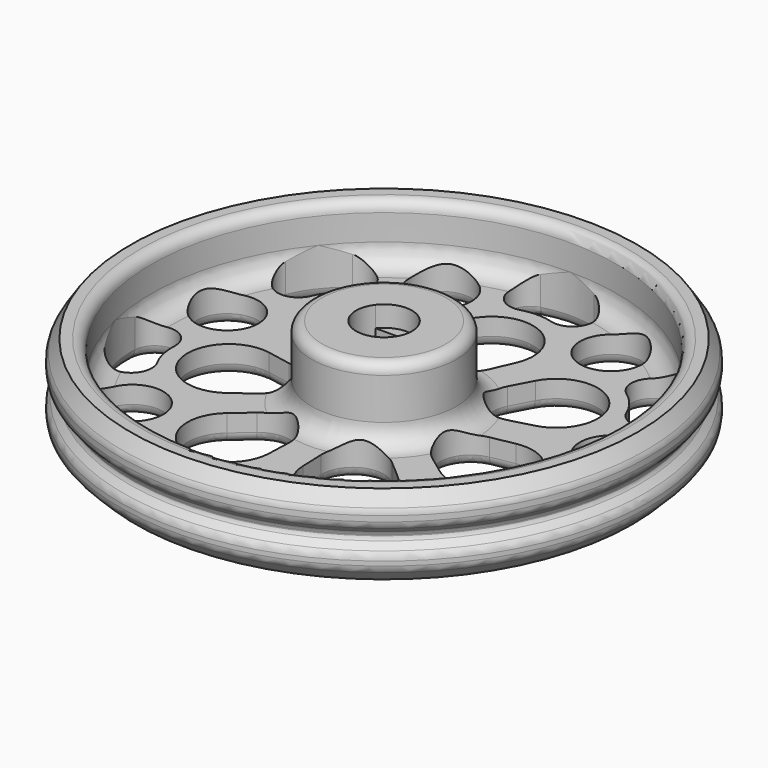
from build123d import *

# Parameters (mm, degrees)
CYLINDER_R               = 1.4
CYLINDER_DEPTH           = 23
CYLINDER_ROLL_ANGLE      = 115
CYLINDER_PLACEMENT_ANGLE = 180
FILLET_R                 = 1
FILLET001_R              = 0.5
POCKET_DEPTH             = 9
SKETCH002_R              = 2.7
POCKET001_DEPTH          = 2
SKETCH003_R              = 3
POCKET002_DEPTH          = 147.996707
POCKET002_DEPTH_BACK     = 152.496707
POLARPATTERN_COUNT       = 7
CHAMFER_SIZE             = 0.4
FILLET002_R              = 1
CHAMFER001_SIZE          = 0.4


with BuildPart() as cilindro:
    # Cylinder → Cylinder (new body)
    with BuildSketch(Plane.XY):
        Circle(CYLINDER_R)
    extrude(amount=CYLINDER_DEPTH)


with BuildPart() as cilindro_1:
    # Cylinder roll: moved
    add(cilindro.part.rotate(Axis((0, 0, 0), (1, 0, 0)), CYLINDER_ROLL_ANGLE))


with BuildPart() as cilindro_2:
    # Cylinder placement: moved
    add(cilindro_1.part.moved(Location((0, 0, 4.5))).rotate(Axis((0, 0, 4.5), (0, 0, 1)), CYLINDER_PLACEMENT_ANGLE))


with BuildPart() as chamfer001:
    # Sketch → Revolution (revolve)
    with BuildSketch(Plane.XZ):
        with BuildLine():
            Line((24, 0), (25.5, 1.5))
            Line((25.5, 1.5), (25.5, 2.75))
            Line((25.5, 2.75), (24.5, 3.75))
            Line((24.5, 3.75), (24.5, 4.25))
            Line((24.5, 4.25), (25.5, 5.25))
            Line((25.5, 5.25), (25.5, 6.5))
            Line((25.5, 6.5), (24.5, 8))
            Line((23.5, 8), (24.5, 8))
            ThreePointArc((23.5, 8), (22.792893, 7.707107), (22.5, 7))
            Line((22.5, 7), (22.5, 4.5))
            ThreePointArc((20.5, 2.5), (21.914214, 3.085787), (22.5, 4.5))
            Line((9.000001, 2.5), (20.5, 2.5))
            ThreePointArc((7, 4.5), (7.585787, 3.085786), (9.000001, 2.5))
            Line((7, 8.5), (7, 4.5))
            ThreePointArc((7, 8.5), (6.707107, 9.207107), (6, 9.5))
            Line((0, 9.5), (6, 9.5))
            Line((0, 0), (0, 9.5))
            Line((24, 0), (0, 0))
        make_face()
    revolve(axis=Axis((0, 0, 0), (0, 0, 1)))

    # Fillet
    fillet_edges = [chamfer001.edges().sort_by_distance(p)[0] for p in [
        (-25.5, 0, 1.5),
        (-25.5, 0, 2.75),
        (-25.5, 0, 5.25),
        (-25.5, 0, 6.5),
    ]]
    fillet(fillet_edges, radius=FILLET_R)

    # Fillet001
    fillet001_edges = [chamfer001.edges().sort_by_distance(p)[0] for p in [
        (-24.5, 0, 4.25),
        (-24.5, 0, 3.75),
    ]]
    fillet(fillet001_edges, radius=FILLET001_R)

    # Sketch001 → Pocket (cut)
    with BuildSketch(Plane(origin=(0, 0, 9.5), x_dir=(-1, 0, 0), z_dir=(0, 0, 1))):
        with BuildLine():
            Line((-2.137171, 1.65), (2.137171, 1.65))
            ThreePointArc((2.137171, -1.65), (2.7, 0), (2.137171, 1.65))
            Line((-2.137171, -1.65), (2.137171, -1.65))
            ThreePointArc((-2.137171, 1.65), (-2.7, 0), (-2.137171, -1.65))
        make_face()
    extrude(amount=-POCKET_DEPTH, mode=Mode.SUBTRACT)

    # Sketch002 → Pocket001 (cut)
    with BuildSketch(Plane(origin=(0, 0, 9.5), x_dir=(-1, 0, 0), z_dir=(0, 0, 1))):
        Circle(SKETCH002_R)
    extrude(amount=-POCKET001_DEPTH, mode=Mode.SUBTRACT)

    # Cut: cut Cilindro
    add(cilindro_2.part, mode=Mode.SUBTRACT)

    # Sketch003 → Pocket002 (cut, two sides)
    with BuildSketch(Plane.XY.offset(2.5)) as pocket002_sk:
        with Locations((8.243791, 17.118409)):
            Circle(SKETCH003_R)
        with BuildLine():
            ThreePointArc((1.5, 18.291503), (0, 18.5), (-1.5, 18.291503))
            ThreePointArc((-2.590881, 22.139876), (-3.969627, 19.670249), (-1.5, 18.291503))
            ThreePointArc((2.590881, 22.139876), (0, 22.5), (-2.590881, 22.139876))
            ThreePointArc((1.5, 18.291503), (3.969627, 19.670249), (2.590881, 22.139876))
        make_face()
        with BuildLine():
            ThreePointArc((3.666061, 11.4), (0, 17), (-3.666061, 11.4))
            Line((-3.666061, 11.4), (-2.749545, 9.3))
            ThreePointArc((-2.749545, 9.3), (0, 7.5), (2.749545, 9.3))
            Line((3.666061, 11.4), (2.749545, 9.3))
        make_face()
    pocket002 = extrude(amount=-POCKET002_DEPTH, mode=Mode.SUBTRACT) + extrude(pocket002_sk.sketch, amount=POCKET002_DEPTH_BACK, mode=Mode.SUBTRACT)

    # PolarPattern: Pocket002 ×7 about axis
    polarpattern_axis = Axis((0, 0, 2.5), (0, 0, 1))
    for i in range(1, POLARPATTERN_COUNT):
        add(pocket002.rotate(polarpattern_axis, i * 360 / POLARPATTERN_COUNT), mode=Mode.SUBTRACT)

    # Chamfer
    chamfer_edges = [chamfer001.edges().sort_by_distance(p)[0] for p in [
        (-7.380827, -7.933214, 0),
        (-7.376024, -15.316471, 0),
        (-1.600566, -10.716841, 0),
        (-3.254128, -6.757267, 0),
        (1.600566, -10.716841, 0),
        (3.254128, -6.757267, 0),
        (7.380827, -7.933214, 0),
        (7.376024, -15.316471, 0),
        (2.702907, -17.698349, 0),
        (4.95809, -19.444638, 0),
        (12.111112, -15.999925, 0),
        (8.026849, -16.667924, 0),
        (9.762384, -20.2718, 0),
        (-8.026849, -16.667924, 0),
        (-12.111112, -15.999925, 0),
        (-9.762384, -20.2718, 0),
        (-4.95809, -19.444638, 0),
        (-12.151892, -13.147958, 0),
        (-17.856068, 1.303114, 0),
        (-10.114261, 14.772914, 0),
        (5.243791, 17.118409, 0),
        (12.903797, 15.367779, 0),
        (14.463882, 11.534561, 0),
        (17.591208, 14.028521, 0),
        (17.853842, 9.16062, 0),
        (16.653161, 6.573392, 0),
        (20.0604, -0.506942, 0),
        (18.293749, -8.247143, 0),
        (21.935878, -5.006721, 0),
        (18.036166, -4.116637, 0),
        (15.522361, -8.921522, 0),
        (9.376701, -5.430468, 0),
        (16.573775, -3.782856, 0),
        (10.804307, 0.824285, 0),
        (7.311959, -1.668907, 0),
        (5.863736, 4.676174, 0),
        (13.291135, 10.599327, 0),
        (6.091923, 8.961081, 0),
        (10.091988, 3.945158, 0),
        (3.207803, 10.35, 0),
        (0, 17, 0),
        (-3.207803, 10.35, 0),
        (-2.097845, 8.355462, 0),
        (2.097845, 8.355462, 0),
        (0, 18.5, 0),
        (0, 22.5, 0),
        (3.969627, 19.670249, 0),
        (-3.969627, 19.670249, 0),
        (-6.091923, 8.961081, 0),
        (-10.091988, 3.945158, 0),
        (-5.863736, 4.676174, 0),
        (-13.291135, 10.599327, 0),
        (-14.463882, 11.534561, 0),
        (-17.853842, 9.16062, 0),
        (-12.903797, 15.367779, 0),
        (-17.591208, 14.028521, 0),
        (-18.036166, -4.116637, 0),
        (-21.935878, -5.006721, 0),
        (-20.0604, -0.506942, 0),
        (-18.293749, -8.247143, 0),
        (-16.573775, -3.782856, 0),
        (-9.376701, -5.430468, 0),
        (-7.311959, -1.668907, 0),
        (-10.804307, 0.824285, 0),
    ]]
    chamfer(chamfer_edges, length=CHAMFER_SIZE)

    # Fillet002
    fillet002_edges = [chamfer001.edges().sort_by_distance(p)[0] for p in [
        (10.091988, 3.945158, 0.4),
        (6.091923, 8.961081, 0.4),
        (13.291135, 10.599327, 0.4),
        (16.573775, -3.782856, 0.4),
        (7.311959, -1.668907, 0.4),
        (9.376701, -5.430468, 0.4),
        (10.804307, 0.824285, 0.4),
        (5.863736, 4.676174, 0.4),
        (16.653161, 6.573392, 0.4),
        (14.463882, 11.534561, 0.4),
        (17.591208, 14.028521, 0.4),
        (17.853842, 9.16062, 0.4),
        (12.903797, 15.367779, 0.4),
        (18.293749, -8.247143, 0.4),
        (20.0604, -0.506942, 0.4),
        (21.935878, -5.006721, 0.4),
        (18.036166, -4.116637, 0.4),
        (15.522361, -8.921522, 0.4),
        (7.376024, -15.316471, 0.4),
        (7.380827, -7.933214, 0.4),
        (1.600566, -10.716841, 0.4),
        (3.254128, -6.757267, 0.4),
        (8.026849, -16.667924, 0.4),
        (9.762384, -20.2718, 0.4),
        (12.111112, -15.999925, 0.4),
        (4.95809, -19.444638, 0.4),
        (2.702907, -17.698349, 0.4),
        (-4.95809, -19.444638, 0.4),
        (-9.762384, -20.2718, 0.4),
        (-8.026849, -16.667924, 0.4),
        (-12.111112, -15.999925, 0.4),
        (-7.376024, -15.316471, 0.4),
        (-1.600566, -10.716841, 0.4),
        (-3.254128, -6.757267, 0.4),
        (-7.380827, -7.933214, 0.4),
        (-12.151892, -13.147958, 0.4),
        (-9.376701, -5.430468, 0.4),
        (-7.311959, -1.668907, 0.4),
        (-16.573775, -3.782856, 0.4),
        (-10.804307, 0.824285, 0.4),
        (-18.036166, -4.116637, 0.4),
        (-21.935878, -5.006721, 0.4),
        (-18.293749, -8.247143, 0.4),
        (-20.0604, -0.506942, 0.4),
        (-17.856068, 1.303114, 0.4),
        (5.243791, 17.118409, 0.4),
        (3.969627, 19.670249, 0.4),
        (-3.969627, 19.670249, 0.4),
        (0, 18.5, 0.4),
        (0, 22.5, 0.4),
        (0, 17, 0.4),
        (3.207803, 10.35, 0.4),
        (-3.207803, 10.35, 0.4),
        (-2.174342, 8.433061, 0.4),
        (2.174342, 8.433061, 0.4),
        (-14.463882, 11.534561, 0.4),
        (-12.903797, 15.367779, 0.4),
        (-10.114261, 14.772914, 0.4),
        (-17.591208, 14.028521, 0.4),
        (-17.853842, 9.16062, 0.4),
        (-13.291135, 10.599327, 0.4),
        (-10.091988, 3.945158, 0.4),
        (-5.863736, 4.676174, 0.4),
        (-6.091923, 8.961081, 0.4),
    ]]
    fillet(fillet002_edges, radius=FILLET002_R)

    # Chamfer001
    chamfer001_edges = [chamfer001.edges().sort_by_distance(p)[0] for p in [
        (0, 6.337599, 0),
    ]]
    chamfer(chamfer001_edges, length=CHAMFER001_SIZE)


solid = chamfer001.part
